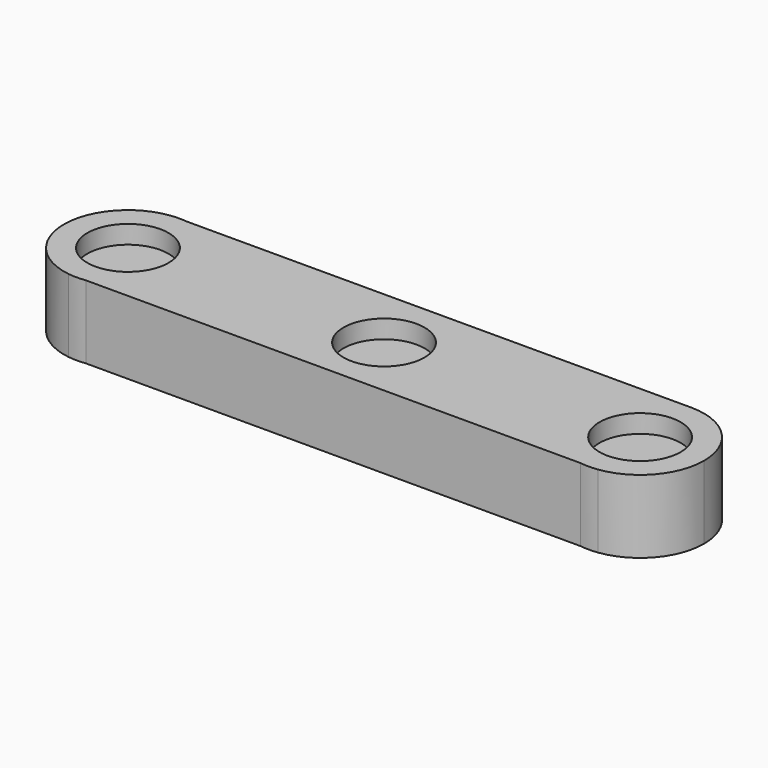
from build123d import *

# Parameters (mm, degrees)
F0_R     = 2.8194
F1_DEPTH = 5.08
F2_DEPTH = 3.81


with BuildPart() as f1:
    # F0 (on Top) → F1 (new body)
    with BuildSketch(Plane.XY):
        with BuildLine():
            ThreePointArc((-27.682035, 19.10422), (-24.942218, 20.588425), (-23.85004, 23.506748))
            ThreePointArc((-23.85004, 23.506748), (-25.153324, 26.65121), (-28.298924, 27.951746))
            ThreePointArc((-28.298924, 27.951746), (-32.729543, 23.812047), (-28.908045, 19.10422))
            Line((-28.908045, 19.10422), (-27.682035, 19.10422))
        make_face()
        with Locations((-28.29504, 23.506748)):
            Circle(F0_R, mode=Mode.SUBTRACT)
        with BuildLine():
            ThreePointArc((-28.908045, 19.10422), (-32.729543, 23.812047), (-28.298924, 27.951746))
            Line((-28.298924, 27.951746), (-63.362555, 27.921106))
            ThreePointArc((-63.362555, 27.921106), (-60.561379, 26.45989), (-59.438573, 23.506748))
            ThreePointArc((-59.438573, 23.506748), (-60.530751, 20.588425), (-63.270569, 19.10422))
            Line((-63.270569, 19.10422), (-28.908045, 19.10422))
        make_face()
        with Locations((-46.089307, 23.506748)):
            Circle(F0_R, mode=Mode.SUBTRACT)
        with BuildLine():
            ThreePointArc((-28.908045, 19.10422), (-28.29504, 19.061748), (-27.682035, 19.10422))
            Line((-27.682035, 19.10422), (-28.908045, 19.10422))
        make_face()
        with BuildLine():
            Line((-64.412306, 27.920189), (-63.362555, 27.921106))
            ThreePointArc((-63.362555, 27.921106), (-63.887458, 27.951746), (-64.412306, 27.920189))
        make_face()
        with BuildLine():
            ThreePointArc((-59.438573, 23.506748), (-60.561379, 26.45989), (-63.362555, 27.921106))
            Line((-63.362555, 27.921106), (-64.412306, 27.920189))
            ThreePointArc((-64.412306, 27.920189), (-68.32837, 23.549236), (-64.496578, 19.10422))
            Line((-64.496578, 19.10422), (-63.270569, 19.10422))
            ThreePointArc((-63.270569, 19.10422), (-60.530751, 20.588425), (-59.438573, 23.506748))
        make_face()
        with Locations((-63.883573, 23.506748)):
            Circle(F0_R, mode=Mode.SUBTRACT)
        with BuildLine():
            ThreePointArc((-64.496578, 19.10422), (-63.883573, 19.061748), (-63.270569, 19.10422))
            Line((-63.270569, 19.10422), (-64.496578, 19.10422))
        make_face()
    extrude(amount=F1_DEPTH)

    # F0 (on Top) → F2 (join)
    with BuildSketch(Plane.XY):
        with Locations((-28.29504, 23.506748)):
            Circle(F0_R)
        with Locations((-46.089307, 23.506748)):
            Circle(F0_R)
        with Locations((-63.883573, 23.506748)):
            Circle(F0_R)
    extrude(amount=F2_DEPTH)


solid = f1.part
